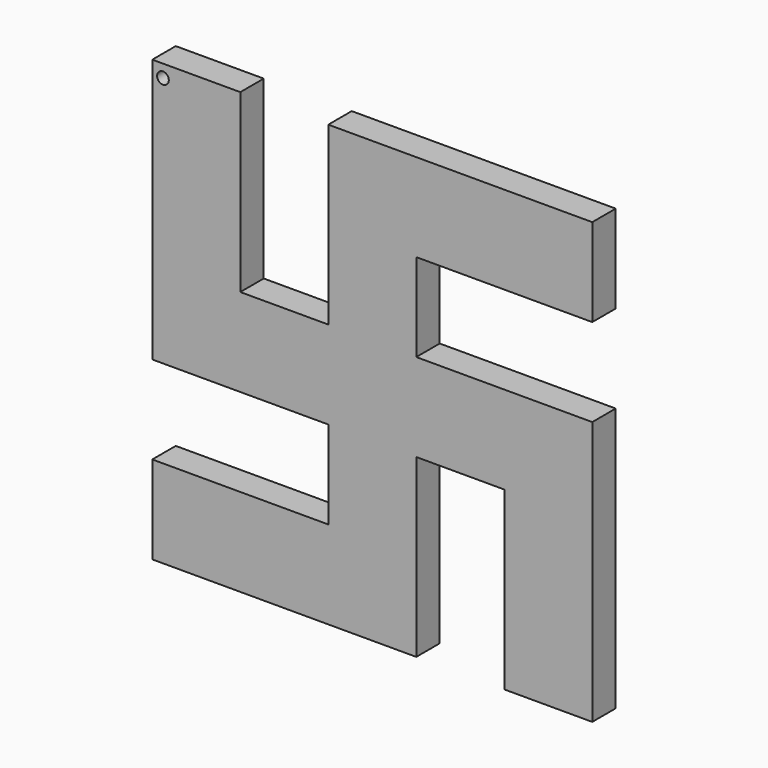
from build123d import *

# Parameters (mm, degrees)
F0_W     = 19.05
F0_H     = 19.05
F1_DEPTH = 6.35
F2_R     = 1.27
F3_DEPTH = 25.4


with BuildPart() as f1:
    # F0 (on Front) → F1 (new body)
    with BuildSketch(Plane.XZ):
        Polygon((-10.8805632712, 62.4568768001), (-10.8805632712, 24.3568768001), (8.1694367288, 24.3568768001), (8.1694367288, 43.4068768001), (46.2694367288, 43.4068768001), (46.2694367288, 62.4568768001), align=None)
        with Locations((-1.3555632712, 14.8318768001)):
            Rectangle(F0_W, F0_H)
        Polygon((8.1694367288, 24.3568768001), (8.1694367288, 5.3068768001), (27.2194367288, 5.3068768001), (27.2194367288, -32.7931231999), (46.2694367288, -32.7931231999), (46.2694367288, 24.3568768001), align=None)
        Polygon((8.1694367288, 5.3068768001), (-10.8805632712, 5.3068768001), (-10.8805632712, -13.7431231999), (-48.9805632712, -13.7431231999), (-48.9805632712, -32.7931231999), (8.1694367288, -32.7931231999), align=None)
        Polygon((-29.9305632712, 62.4568768001), (-48.9805632712, 62.4568768001), (-48.9805632712, 5.3068768001), (-10.8805632712, 5.3068768001), (-10.8805632712, 24.3568768001), (-29.9305632712, 24.3568768001), align=None)
    extrude(amount=F1_DEPTH)

    # F2 (on face) → F3 (cut)
    with BuildSketch(Plane.XZ.offset(6.35)):
        with Locations((-46.6758534312, 59.7021207213)):
            Circle(F2_R)
    extrude(amount=-F3_DEPTH, mode=Mode.SUBTRACT)


solid = f1.part
